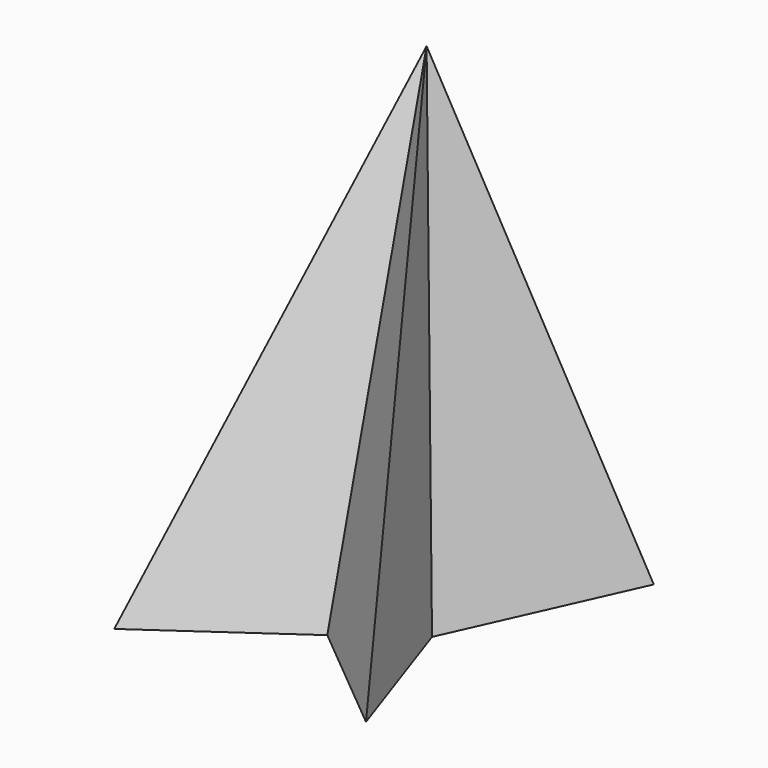
from build123d import *


with BuildPart() as f3:
    # F0 (on Top) → F3 section 0
    with BuildSketch(Plane.XY, mode=Mode.PRIVATE) as f3_s0:
        Polygon((31.089004, 21.797173), (0, 0), (-37.971303, 18.27069), (-11.282644, -19.794973), (-29.155094, -46.969265), (0, -26.527998), (24.623785, -46.969265), (14.044332, -16.112529), align=None)
    loft([Vertex(0, 0, 100), f3_s0.sketch])


solid = f3.part
